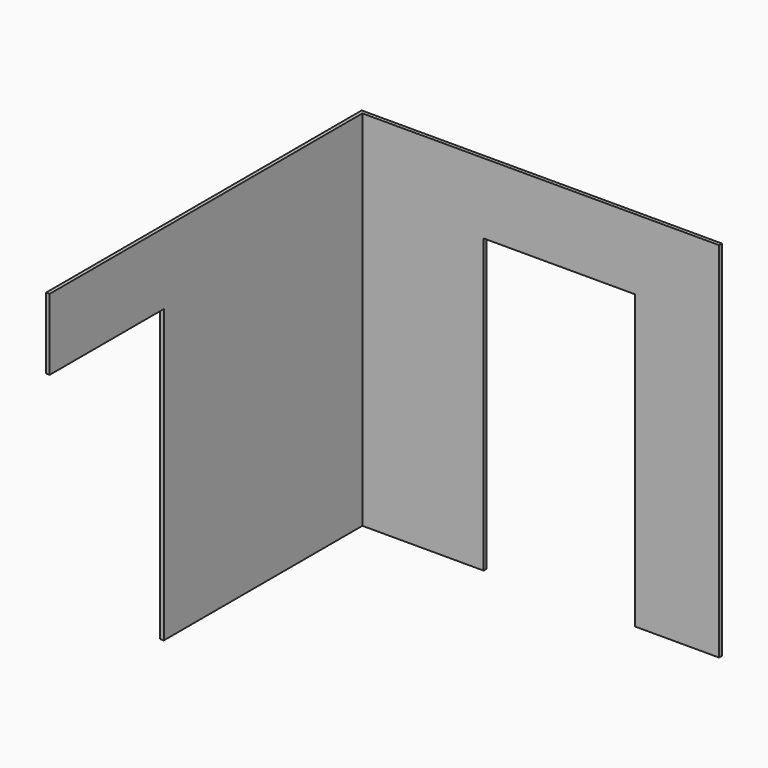
from build123d import *

# Parameters (mm, degrees)
F1_DEPTH = 25
F2_W     = 1018.0079698563
F2_H     = 2545
F3_DEPTH = 25
F4_DEPTH = 25
F5_DEPTH = 722
F6_W     = 25
F6_H     = 499.8260952983
F7_DEPTH = 1000


with BuildPart() as f1:
    # F0 (on Front) → F1 (new body)
    with BuildSketch(Plane.XZ):
        Polygon((890.9331802642, 1275.1689769779), (-1609.0668197358, 1275.1689769779), (-1609.0668197358, -1269.8310230221), (-759.0668197358, -1269.8310230221), (-759.0668197358, 780.1689769779), (300.9331802642, 780.1689769779), (300.9331802642, -1269.8310230221), (890.9331802642, -1269.8310230221), align=None)
    extrude(amount=F1_DEPTH)

    # F2 (on face) → F3 (join)
    with BuildSketch(Plane(origin=(-1609.0668197358, 0, 0), x_dir=(0, -1, 0), z_dir=(-1, 0, 0))):
        with Locations((534.0039849281, 2.6689769779)):
            Rectangle(F2_W, F2_H)
    extrude(amount=F3_DEPTH)

    # F4 (add): a face of the model
    f4_faces = [f1.faces().sort_by_distance(p)[0] for p in [
        (-1609.0668197358, -12.5, 2.6689769779),
    ]]
    extrude(f4_faces, amount=F4_DEPTH)

    # F5 (add): a face of the model
    f5_faces = [f1.faces().sort_by_distance(p)[0] for p in [
        (-1621.5668197358, -1043.0079698563, 2.6689769779),
    ]]
    extrude(f5_faces, amount=F5_DEPTH)

    # F6 (on face) → F7 (join)
    with BuildSketch(Plane.XZ.offset(1765.0079698563)):
        with Locations((-1621.5668197358, 1025.2559293287)):
            Rectangle(F6_W, F6_H)
    extrude(amount=F7_DEPTH)


solid = f1.part
